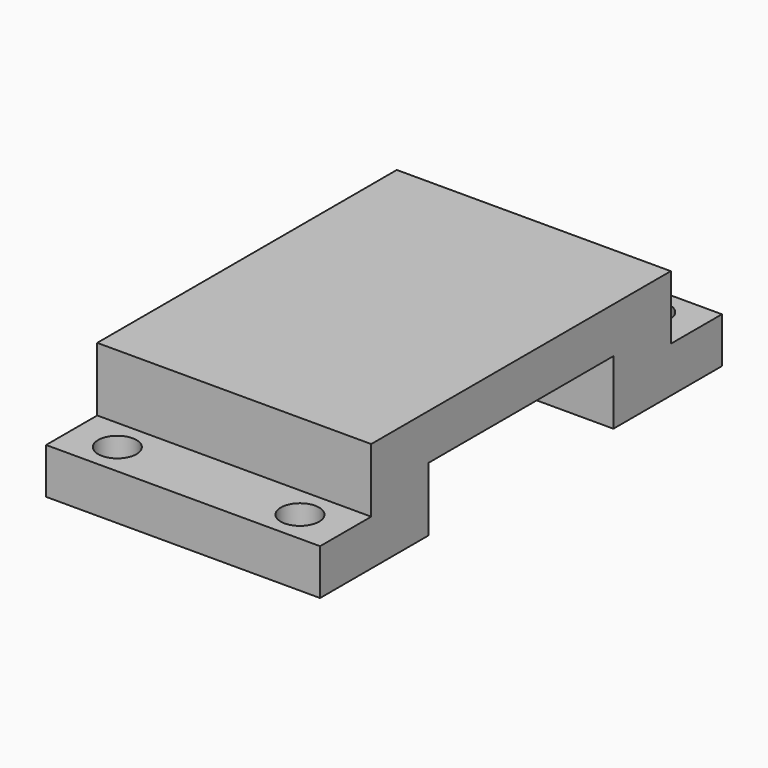
from build123d import *

# Parameters (mm, degrees)
F0_W      = 30
F0_H      = 55
F1_DEPTH  = 12
F3_W      = 25.3
F3_H      = 14
F4_DEPTH  = 30.001
F5_W      = 7
F5_H      = 7
F6_DEPTH  = 30.001
F7_W      = 7
F7_H      = 7
F8_DEPTH  = 30.001
F10_R     = 2.1
F11_DEPTH = 5.001
F12_R     = 2.1
F13_DEPTH = 5.001


with BuildPart() as f1:
    # F0 (on Top) → F1 (new body)
    with BuildSketch(Plane.XY):
        Rectangle(F0_W, F0_H)
    extrude(amount=F1_DEPTH)

    # F3 (on offset) → F4 (cut, through all)
    with BuildSketch(Plane.YZ.offset(15)):
        Rectangle(F3_W, F3_H)
    extrude(amount=-F4_DEPTH, mode=Mode.SUBTRACT)

    # F5 (on face) → F6 (cut, through all)
    with BuildSketch(Plane.YZ.offset(15)):
        with Locations((-24, 8.5)):
            Rectangle(F5_W, F5_H)
    extrude(amount=-F6_DEPTH, mode=Mode.SUBTRACT)

    # F7 (on face) → F8 (cut, through all)
    with BuildSketch(Plane.YZ.offset(15)):
        with Locations((24, 8.5)):
            Rectangle(F7_W, F7_H)
    extrude(amount=-F8_DEPTH, mode=Mode.SUBTRACT)

    # F10 (on offset) → F11 (cut, through all)
    with BuildSketch(Plane.XY.offset(5)):
        with Locations((-10, 24)):
            Circle(F10_R)
        with Locations((10, 24)):
            Circle(F10_R)
    extrude(amount=-F11_DEPTH, mode=Mode.SUBTRACT)

    # F12 (on face) → F13 (cut, through all)
    with BuildSketch(Plane.XY.offset(5)):
        with Locations((-10, -24)):
            Circle(F12_R)
        with Locations((10, -24)):
            Circle(F12_R)
    extrude(amount=-F13_DEPTH, mode=Mode.SUBTRACT)


solid = f1.part
